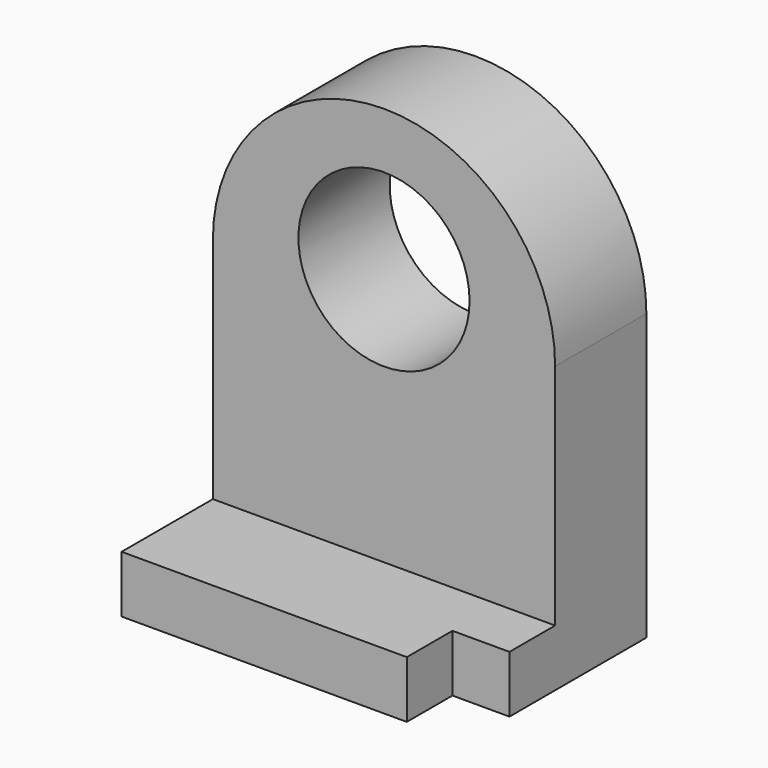
from build123d import *

# Parameters (mm, degrees)
F0_W     = 76.2
F0_H     = 50.8
F1_DEPTH = 12.7
F2_W     = 12.7
F2_H     = 12.7
F3_DEPTH = 12.7
F5_DEPTH = 25.4
F6_R     = 19.05
F7_DEPTH = 25.4


with BuildPart() as f1:
    # F0 (on Top) → F1 (new body)
    with BuildSketch(Plane.XY):
        Rectangle(F0_W, F0_H)
    extrude(amount=F1_DEPTH)

    # F2 (on face) → F3 (cut)
    with BuildSketch(Plane.XY.offset(12.7)):
        with Locations((31.75, -19.05)):
            Rectangle(F2_W, F2_H)
    extrude(amount=-F3_DEPTH, mode=Mode.SUBTRACT)

    # F4 (on Front) → F5 (join)
    with BuildSketch(Plane.XZ):
        with BuildLine():
            Line((-38.1, 12.7), (38.1, 12.7))
            Line((38.1, 12.7), (38.1, 63.5))
            ThreePointArc((38.1, 63.5), (0, 25.4), (-38.1, 63.5))
            Line((-38.1, 63.5), (-38.1, 12.7))
        make_face()
        with BuildLine():
            ThreePointArc((-38.1, 63.5), (0, 25.4), (38.1, 63.5))
            Line((38.1, 63.5), (-38.1, 63.5))
        make_face()
        with BuildLine():
            Line((-38.1, 63.5), (38.1, 63.5))
            ThreePointArc((38.1, 63.5), (0, 101.6), (-38.1, 63.5))
        make_face()
    extrude(amount=-F5_DEPTH)

    # F6 (on face) → F7 (cut)
    with BuildSketch(Plane.XZ):
        with Locations((0, 70.110589)):
            Circle(F6_R)
    extrude(amount=-F7_DEPTH, mode=Mode.SUBTRACT)


solid = f1.part
